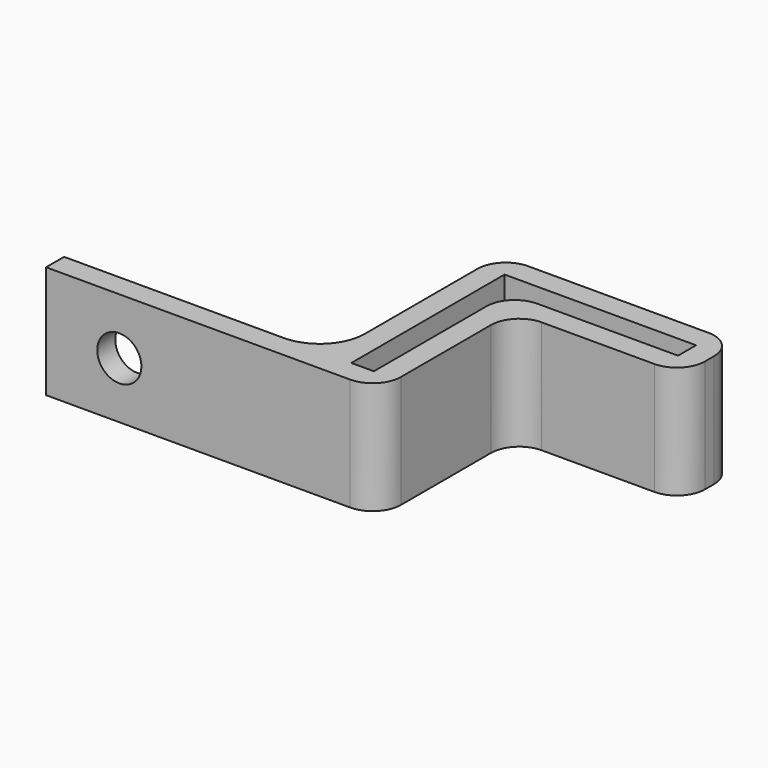
from build123d import *

# Parameters (mm, degrees)
F1_DEPTH  = 12.7
F2_R      = 3.175
F3_W      = 33.02
F3_H      = 12.7
F4_DEPTH  = 2.54
F5_R      = 5.08
F6_R      = 2.4892
F7_DEPTH  = 2.54
F8_R      = 2.54
F9_DEPTH  = 2.54
F10_R     = 2.54
F11_DEPTH = 2.54


with BuildPart() as f1:
    # F0 (on Top) → F1 (new body)
    with BuildSketch(Plane.XY):
        Polygon((0, 24.13), (0, -2.1948770154), (0, -2.54), (7.62, -2.54), (7.62, 16.51), (26.67, 16.51), (26.67, 24.13), align=None)
        Polygon((5.08, 0), (2.54, 0), (2.54, 21.59), (5.08, 21.59), (24.13, 21.59), (24.13, 19.05), (5.08, 19.05), align=None, mode=Mode.SUBTRACT)
    extrude(amount=F1_DEPTH)

    # F2
    f2_edges = [f1.edges().sort_by_distance(p)[0] for p in [
        (26.67, 24.13, 6.35),
        (26.67, 16.51, 6.35),
        (5.08, 19.05, 6.35),
        (0, 24.13, 6.35),
        (7.62, -2.54, 6.35),
        (0, -2.54, 6.35),
        (7.62, 16.51, 6.35),
    ]]
    fillet(f2_edges, radius=F2_R)

    # F3 (on face) → F4 (join)
    with BuildSketch(Plane.XZ.offset(2.54)):
        with Locations((-13.335, 6.35)):
            Rectangle(F3_W, F3_H)
    extrude(amount=-F4_DEPTH)

    # F5
    f5_edges = [f1.edges().sort_by_distance(p)[0] for p in [
        (0.064148, 0, 6.35),
    ]]
    fillet(f5_edges, radius=F5_R)

    # F6 (on face) → F7 (cut, through all)
    with BuildSketch(Plane.XZ.offset(2.54)):
        with Locations((-21.59, 6.35)):
            Circle(F6_R)
    extrude(amount=-F7_DEPTH, mode=Mode.SUBTRACT)

    # F8 (on face) → F9 (cut, through all)
    with BuildSketch(Plane(origin=(0, 24.13, 0), x_dir=(-1, 0, 0), z_dir=(0, 1, 0))):
        with Locations((-18.415, 6.35)):
            Circle(F8_R)
    extrude(amount=-F9_DEPTH, mode=Mode.SUBTRACT)

    # F10 (on face) → F11 (cut, through all)
    with BuildSketch(Plane(origin=(0, 0, 0), x_dir=(0, -1, 0), z_dir=(-1, 0, 0))):
        with Locations((-9.525, 6.35)):
            Circle(F10_R)
    extrude(amount=-F11_DEPTH, mode=Mode.SUBTRACT)


solid = f1.part
